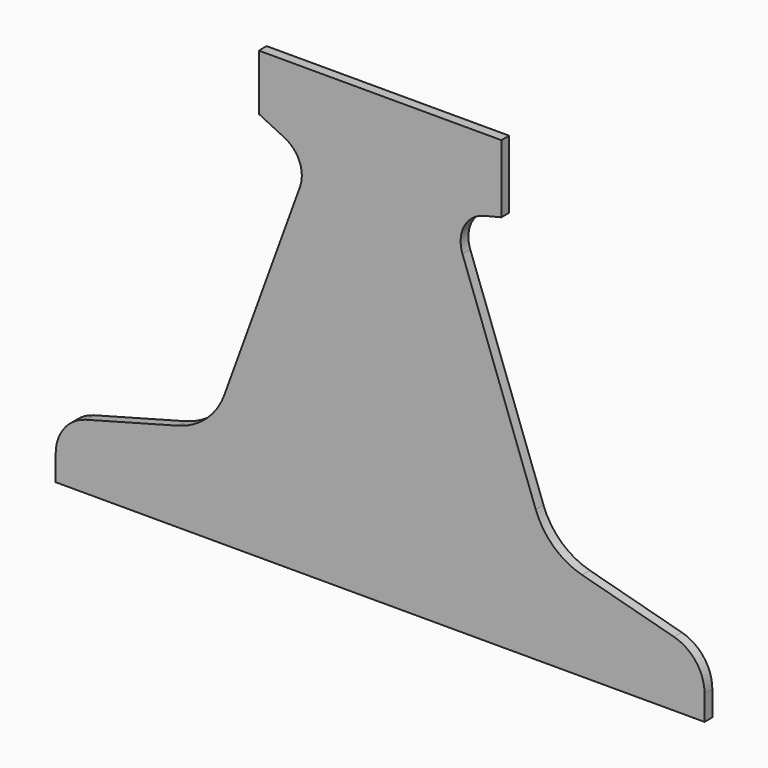
from build123d import *

# Parameters (mm, degrees)
F1_DEPTH = 12


with BuildPart() as f1:
    # F0 (on Front) → F1 (new body)
    with BuildSketch(Plane.XZ):
        with BuildLine():
            Line((-385.239591, -216.748114), (-385.239591, -247.767903))
            Line((-385.239591, -247.767903), (414.760409, -247.767903))
            Line((414.760409, -247.767903), (414.760409, -216.748114))
            ThreePointArc((414.760409, -216.748114), (404.262759, -185.823034), (377.108417, -167.679082))
            Line((377.108417, -167.679082), (263.722384, -137.297386))
            ThreePointArc((263.722384, -137.297386), (228.788625, -118.13207), (206.651561, -85.001612))
            Line((206.651561, -85.001612), (116.330324, 163.153948))
            ThreePointArc((116.330324, 163.153948), (118.486024, 194.059957), (142.889403, 213.146694))
            Line((142.889403, 213.146694), (164.289631, 218.498353))
            Line((164.289631, 218.498353), (164.289631, 302.232097))
            Line((164.289631, 302.232097), (-134.768812, 302.232097))
            Line((-134.768812, 302.232097), (-134.768812, 233.465457))
            Line((-134.768812, 233.465457), (-103.102214, 217.953577))
            ThreePointArc((-103.102214, 217.953577), (-84.524765, 197.980438), (-84.060364, 170.70715))
            Line((-84.060364, 170.70715), (-177.130742, -85.001612))
            ThreePointArc((-177.130742, -85.001612), (-199.267807, -118.13207), (-234.201565, -137.297386))
            Line((-234.201565, -137.297386), (-347.587598, -167.679082))
            ThreePointArc((-347.587598, -167.679082), (-374.74194, -185.823034), (-385.239591, -216.748114))
        make_face()
    extrude(amount=F1_DEPTH)


solid = f1.part
